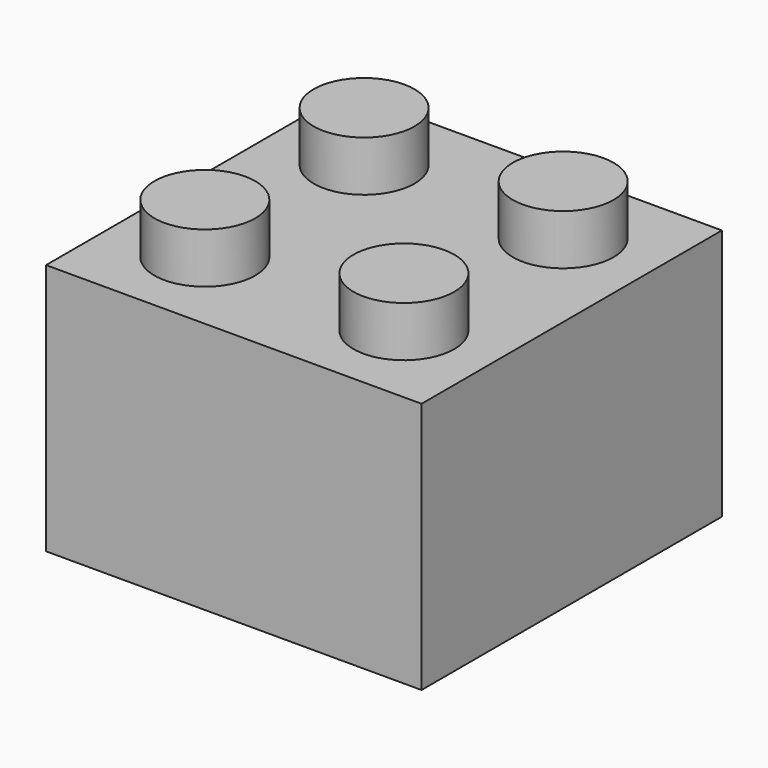
from build123d import *

# Parameters (mm, degrees)
F0_W     = 14.9
F0_H     = 14.9
F0_R     = 2
F1_DEPTH = 10
F2_DEPTH = 12
F3_W     = 11.7
F3_H     = 11.7
F3_R     = 3.25
F3_R_2   = 2.8
F4_DEPTH = 9


with BuildPart() as f1:
    # F0 (on Top) → F1 (new body)
    with BuildSketch(Plane.XY):
        Rectangle(F0_W, F0_H)
        with Locations((-3.95, -3.95)):
            Circle(F0_R, mode=Mode.SUBTRACT)
        with Locations((3.95, -3.95)):
            Circle(F0_R, mode=Mode.SUBTRACT)
        with Locations((-3.95, 3.95)):
            Circle(F0_R, mode=Mode.SUBTRACT)
        with Locations((3.95, 3.95)):
            Circle(F0_R, mode=Mode.SUBTRACT)
    extrude(amount=F1_DEPTH)

    # F0 (on Top) → F2 (join)
    with BuildSketch(Plane.XY):
        with Locations((-3.95, -3.95)):
            Circle(F0_R)
        with Locations((-3.95, 3.95)):
            Circle(F0_R)
        with Locations((3.95, 3.95)):
            Circle(F0_R)
        with Locations((3.95, -3.95)):
            Circle(F0_R)
    extrude(amount=F2_DEPTH)

    # F3 (on face) → F4 (cut)
    with BuildSketch(Plane(origin=(0, 0, 0), x_dir=(1, 0, 0), z_dir=(0, 0, -1))):
        Rectangle(F3_W, F3_H)
        Circle(F3_R, mode=Mode.SUBTRACT)
        Circle(F3_R_2)
    extrude(amount=-F4_DEPTH, mode=Mode.SUBTRACT)


solid = f1.part
